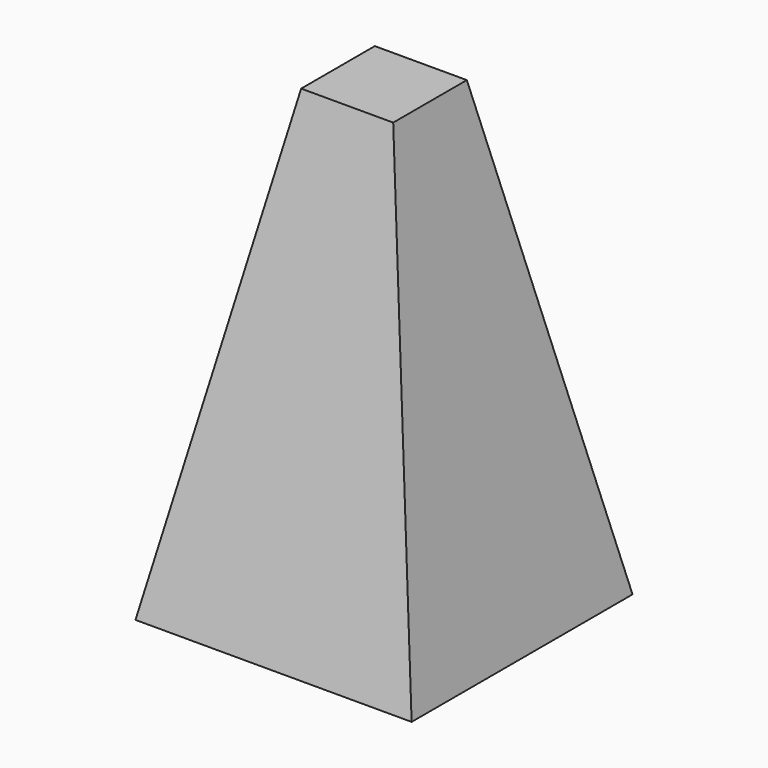
from build123d import *

# Parameters (mm, degrees)
F0_W     = 76.2
F0_H     = 127
F1_DEPTH = 76.2
F3_DEPTH = 76.2
F5_DEPTH = 76.2


with BuildPart() as f1:
    # F0 (on Front) → F1 (new body)
    with BuildSketch(Plane.XZ):
        with Locations((38.1, 63.5)):
            Rectangle(F0_W, F0_H)
    extrude(amount=F1_DEPTH)

    # F2 (on face) → F3 (cut)
    with BuildSketch(Plane(origin=(0, 0, 0), x_dir=(0, -1, 0), z_dir=(-1, 0, 0))):
        Polygon((0, 127), (0, 0), (25.4, 127), align=None)
        Polygon((50.8, 127), (76.2, 0), (76.2, 127), align=None)
    extrude(amount=-F3_DEPTH, mode=Mode.SUBTRACT)

    # F4 (on Front) → F5 (cut)
    with BuildSketch(Plane.XZ):
        Polygon((0, 127), (0, 0), (25.4, 127), align=None)
        Polygon((50.8, 127), (76.2, 0), (76.2, 127), align=None)
    extrude(amount=F5_DEPTH, mode=Mode.SUBTRACT)


solid = f1.part
